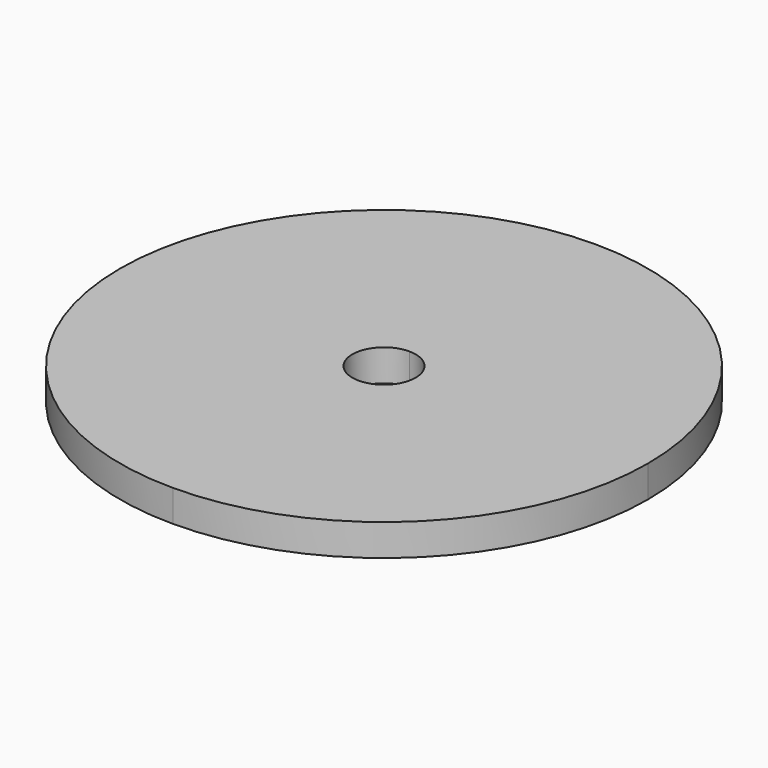
from build123d import *

# Parameters (mm, degrees)
F1_DEPTH = 3


with BuildPart() as f1:
    # F0 (on Top) → F1 (new body)
    with BuildSketch(Plane.XY):
        with BuildLine():
            ThreePointArc((25, 0), (17.67767, 17.67767), (0, 25))
            Line((0, 25), (0, 3))
            ThreePointArc((0, 3), (2.12132, 2.12132), (3, 0))
            ThreePointArc((3, 0), (2.12132, -2.12132), (0, -3))
            Line((0, -3), (0, -25))
            ThreePointArc((0, -25), (17.67767, -17.67767), (25, 0))
        make_face()
        with BuildLine():
            Line((0, 3), (0, 25))
            ThreePointArc((0, 25), (-25, 0), (0, -25))
            Line((0, -25), (0, -3))
            ThreePointArc((0, -3), (-3, 0), (0, 3))
        make_face()
    extrude(amount=F1_DEPTH)


solid = f1.part
